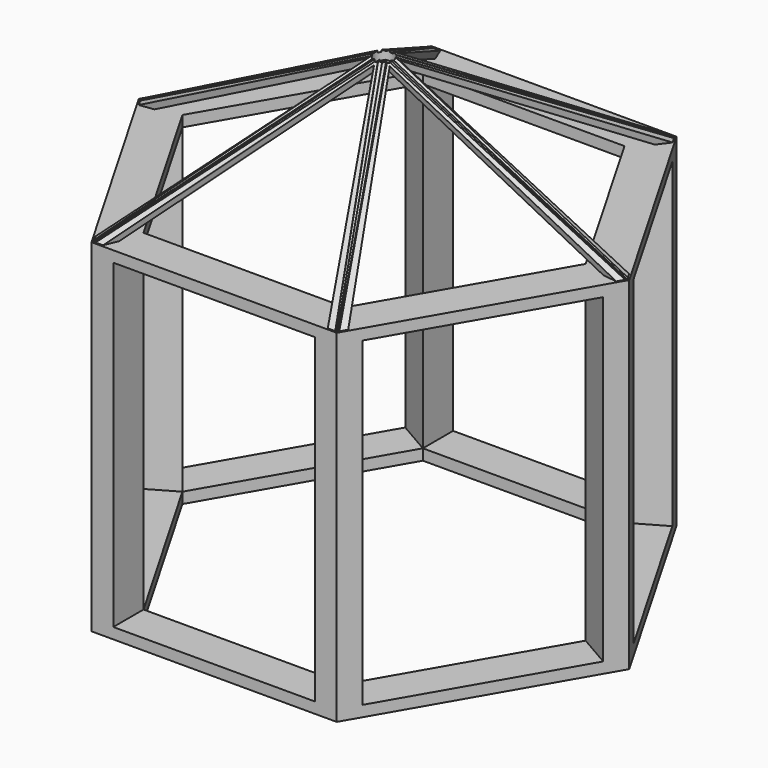
from build123d import *

# Parameters (mm, degrees)
CYLINDER_R                  = 4.5
CYLINDER_DEPTH              = 1000
PAD004_DEPTH                = 3
BODY004_PLACEMENT_ANGLE     = 60
PAD003_DEPTH                = 3
BODY003_PLACEMENT_ANGLE     = 60
PAD006_DEPTH                = 3
BODY006_PLACEMENT_ANGLE     = 60
PAD005_DEPTH                = 3
BODY005_PLACEMENT_ANGLE     = 60
CUT003_PLACEMENT_ANGLE      = 60
PAD008_DEPTH                = 3
BODY008_PLACEMENT_ANGLE     = 60
PAD007_DEPTH                = 3
BODY007_PLACEMENT_ANGLE     = 60
CUT004_PLACEMENT_ANGLE      = 120
PAD010_DEPTH                = 3
BODY010_PLACEMENT_ANGLE     = 60
PAD009_DEPTH                = 3
BODY009_PLACEMENT_ANGLE     = 60
CUT005_PLACEMENT_ANGLE      = 180
PAD012_DEPTH                = 3
BODY012_PLACEMENT_ANGLE     = 60
PAD011_DEPTH                = 3
BODY011_PLACEMENT_ANGLE     = 60
CUT006_PLACEMENT_ANGLE      = 240
PAD014_DEPTH                = 3
BODY014_PLACEMENT_ANGLE     = 60
PAD013_DEPTH                = 3
BODY013_PLACEMENT_ANGLE     = 60
CUT007_PLACEMENT_ANGLE      = 300
BOX_W                       = 92.4
BOX_H                       = 18
BOX_DEPTH                   = 147
BOX001_W                    = 92.4
BOX001_H                    = 18
BOX001_DEPTH                = 147
COMPOUND001_PLACEMENT_ANGLE = 60
BOX002_W                    = 92.4
BOX002_H                    = 18
BOX002_DEPTH                = 147
COMPOUND002_PLACEMENT_ANGLE = 120
BOX003_W                    = 92.4
BOX003_H                    = 18
BOX003_DEPTH                = 147
COMPOUND003_PLACEMENT_ANGLE = 180
BOX004_W                    = 92.4
BOX004_H                    = 18
BOX004_DEPTH                = 147
COMPOUND004_PLACEMENT_ANGLE = 240
BOX005_W                    = 92.4
BOX005_H                    = 18
BOX005_DEPTH                = 147
COMPOUND005_PLACEMENT_ANGLE = 300
PAD001_DEPTH                = 157
PAD_DEPTH                   = 157


with BuildPart() as cylinder:
    # Cylinder → Cylinder (new body)
    with BuildSketch(Plane.XY):
        Circle(CYLINDER_R)
    extrude(amount=CYLINDER_DEPTH)


with BuildPart() as compound007:
    # Sketch004 → Pad004 (new body)
    with BuildSketch(Plane.XZ):
        Polygon((-51.5, 0), (51.5, 0), (0, 105), align=None)
    extrude(amount=PAD004_DEPTH)


with BuildPart() as compound007_1:
    # Body004 placement: moved
    add(compound007.part.moved(Location((0, 96.6, 157))).rotate(Axis((0, 96.6, 157), (1, 0, 0)), BODY004_PLACEMENT_ANGLE))


with BuildPart() as cut002:
    # Sketch003 → Pad003 (new body)
    with BuildSketch(Plane.XZ):
        Polygon((-56.5, 0), (56.5, 0), (0, 115), align=None)
    extrude(amount=PAD003_DEPTH)


with BuildPart() as cut002_1:
    # Body003 placement: moved
    add(cut002.part.moved(Location((0, 96.6, 157))).rotate(Axis((0, 96.6, 157), (1, 0, 0)), BODY003_PLACEMENT_ANGLE))

    # Cut002: cut Compound007
    add(compound007_1.part, mode=Mode.SUBTRACT)


with BuildPart() as compound009:
    # Sketch006 → Pad006 (new body)
    with BuildSketch(Plane.XZ):
        Polygon((-51.5, 0), (51.5, 0), (0, 105), align=None)
    extrude(amount=PAD006_DEPTH)


with BuildPart() as compound009_1:
    # Body006 placement: moved
    add(compound009.part.moved(Location((0, 96.6, 157))).rotate(Axis((0, 96.6, 157), (1, 0, 0)), BODY006_PLACEMENT_ANGLE))


with BuildPart() as cut003:
    # Sketch005 → Pad005 (new body)
    with BuildSketch(Plane.XZ):
        Polygon((-56.5, 0), (56.5, 0), (0, 115), align=None)
    extrude(amount=PAD005_DEPTH)


with BuildPart() as cut003_1:
    # Body005 placement: moved
    add(cut003.part.moved(Location((0, 96.6, 157))).rotate(Axis((0, 96.6, 157), (1, 0, 0)), BODY005_PLACEMENT_ANGLE))

    # Cut003: cut Compound009
    add(compound009_1.part, mode=Mode.SUBTRACT)


with BuildPart() as cut003_2:
    # Cut003 placement: moved
    add(cut003_1.part.rotate(Axis((0, 0, 0), (0, 0, 1)), CUT003_PLACEMENT_ANGLE))


with BuildPart() as compound011:
    # Sketch008 → Pad008 (new body)
    with BuildSketch(Plane.XZ):
        Polygon((-51.5, 0), (51.5, 0), (0, 105), align=None)
    extrude(amount=PAD008_DEPTH)


with BuildPart() as compound011_1:
    # Body008 placement: moved
    add(compound011.part.moved(Location((0, 96.6, 157))).rotate(Axis((0, 96.6, 157), (1, 0, 0)), BODY008_PLACEMENT_ANGLE))


with BuildPart() as cut004:
    # Sketch007 → Pad007 (new body)
    with BuildSketch(Plane.XZ):
        Polygon((-56.5, 0), (56.5, 0), (0, 115), align=None)
    extrude(amount=PAD007_DEPTH)


with BuildPart() as cut004_1:
    # Body007 placement: moved
    add(cut004.part.moved(Location((0, 96.6, 157))).rotate(Axis((0, 96.6, 157), (1, 0, 0)), BODY007_PLACEMENT_ANGLE))

    # Cut004: cut Compound011
    add(compound011_1.part, mode=Mode.SUBTRACT)


with BuildPart() as cut004_2:
    # Cut004 placement: moved
    add(cut004_1.part.rotate(Axis((0, 0, 0), (0, 0, 1)), CUT004_PLACEMENT_ANGLE))


with BuildPart() as compound013:
    # Sketch010 → Pad010 (new body)
    with BuildSketch(Plane.XZ):
        Polygon((-51.5, 0), (51.5, 0), (0, 105), align=None)
    extrude(amount=PAD010_DEPTH)


with BuildPart() as compound013_1:
    # Body010 placement: moved
    add(compound013.part.moved(Location((0, 96.6, 157))).rotate(Axis((0, 96.6, 157), (1, 0, 0)), BODY010_PLACEMENT_ANGLE))


with BuildPart() as cut005:
    # Sketch009 → Pad009 (new body)
    with BuildSketch(Plane.XZ):
        Polygon((-56.5, 0), (56.5, 0), (0, 115), align=None)
    extrude(amount=PAD009_DEPTH)


with BuildPart() as cut005_1:
    # Body009 placement: moved
    add(cut005.part.moved(Location((0, 96.6, 157))).rotate(Axis((0, 96.6, 157), (1, 0, 0)), BODY009_PLACEMENT_ANGLE))

    # Cut005: cut Compound013
    add(compound013_1.part, mode=Mode.SUBTRACT)


with BuildPart() as cut005_2:
    # Cut005 placement: moved
    add(cut005_1.part.rotate(Axis((0, 0, 0), (0, 0, 1)), CUT005_PLACEMENT_ANGLE))


with BuildPart() as compound015:
    # Sketch012 → Pad012 (new body)
    with BuildSketch(Plane.XZ):
        Polygon((-51.5, 0), (51.5, 0), (0, 105), align=None)
    extrude(amount=PAD012_DEPTH)


with BuildPart() as compound015_1:
    # Body012 placement: moved
    add(compound015.part.moved(Location((0, 96.6, 157))).rotate(Axis((0, 96.6, 157), (1, 0, 0)), BODY012_PLACEMENT_ANGLE))


with BuildPart() as cut006:
    # Sketch011 → Pad011 (new body)
    with BuildSketch(Plane.XZ):
        Polygon((-56.5, 0), (56.5, 0), (0, 115), align=None)
    extrude(amount=PAD011_DEPTH)


with BuildPart() as cut006_1:
    # Body011 placement: moved
    add(cut006.part.moved(Location((0, 96.6, 157))).rotate(Axis((0, 96.6, 157), (1, 0, 0)), BODY011_PLACEMENT_ANGLE))

    # Cut006: cut Compound015
    add(compound015_1.part, mode=Mode.SUBTRACT)


with BuildPart() as cut006_2:
    # Cut006 placement: moved
    add(cut006_1.part.rotate(Axis((0, 0, 0), (0, 0, 1)), CUT006_PLACEMENT_ANGLE))


with BuildPart() as compound017:
    # Sketch014 → Pad014 (new body)
    with BuildSketch(Plane.XZ):
        Polygon((-51.5, 0), (51.5, 0), (0, 105), align=None)
    extrude(amount=PAD014_DEPTH)


with BuildPart() as compound017_1:
    # Body014 placement: moved
    add(compound017.part.moved(Location((0, 96.6, 157))).rotate(Axis((0, 96.6, 157), (1, 0, 0)), BODY014_PLACEMENT_ANGLE))


with BuildPart() as cut008:
    # Sketch013 → Pad013 (new body)
    with BuildSketch(Plane.XZ):
        Polygon((-56.5, 0), (56.5, 0), (0, 115), align=None)
    extrude(amount=PAD013_DEPTH)


with BuildPart() as cut008_1:
    # Body013 placement: moved
    add(cut008.part.moved(Location((0, 96.6, 157))).rotate(Axis((0, 96.6, 157), (1, 0, 0)), BODY013_PLACEMENT_ANGLE))

    # Cut007: cut Compound017
    add(compound017_1.part, mode=Mode.SUBTRACT)


with BuildPart() as cut008_2:
    # Cut007 placement: moved
    add(cut008_1.part.rotate(Axis((0, 0, 0), (0, 0, 1)), CUT007_PLACEMENT_ANGLE))

    # Fusion001: union Cut002, Cut003, Cut004, Cut005, Cut006
    add(cut002_1.part)
    add(cut003_2.part)
    add(cut004_2.part)
    add(cut005_2.part)
    add(cut006_2.part)

    # Cut008: cut Cylinder
    add(cylinder.part, mode=Mode.SUBTRACT)


with BuildPart() as compound:
    # Box → Box (new body)
    with BuildSketch(Plane(origin=(-46.2, 80, 5), x_dir=(1, 0, 0), z_dir=(0, 0, 1))):
        with Locations((46.2, 9)):
            Rectangle(BOX_W, BOX_H)
    extrude(amount=BOX_DEPTH)


with BuildPart() as compound001:
    # Box001 → Box001 (new body)
    with BuildSketch(Plane(origin=(-46.2, 80, 5), x_dir=(1, 0, 0), z_dir=(0, 0, 1))):
        with Locations((46.2, 9)):
            Rectangle(BOX001_W, BOX001_H)
    extrude(amount=BOX001_DEPTH)


with BuildPart() as compound001_1:
    # Compound001 placement: moved
    add(compound001.part.rotate(Axis((0, 0, 0), (0, 0, 1)), COMPOUND001_PLACEMENT_ANGLE))


with BuildPart() as compound002:
    # Box002 → Box002 (new body)
    with BuildSketch(Plane(origin=(-46.2, 80, 5), x_dir=(1, 0, 0), z_dir=(0, 0, 1))):
        with Locations((46.2, 9)):
            Rectangle(BOX002_W, BOX002_H)
    extrude(amount=BOX002_DEPTH)


with BuildPart() as compound002_1:
    # Compound002 placement: moved
    add(compound002.part.rotate(Axis((0, 0, 0), (0, 0, 1)), COMPOUND002_PLACEMENT_ANGLE))


with BuildPart() as compound003:
    # Box003 → Box003 (new body)
    with BuildSketch(Plane(origin=(-46.2, 80, 5), x_dir=(1, 0, 0), z_dir=(0, 0, 1))):
        with Locations((46.2, 9)):
            Rectangle(BOX003_W, BOX003_H)
    extrude(amount=BOX003_DEPTH)


with BuildPart() as compound003_1:
    # Compound003 placement: moved
    add(compound003.part.rotate(Axis((0, 0, 0), (0, 0, 1)), COMPOUND003_PLACEMENT_ANGLE))


with BuildPart() as compound004:
    # Box004 → Box004 (new body)
    with BuildSketch(Plane(origin=(-46.2, 80, 5), x_dir=(1, 0, 0), z_dir=(0, 0, 1))):
        with Locations((46.2, 9)):
            Rectangle(BOX004_W, BOX004_H)
    extrude(amount=BOX004_DEPTH)


with BuildPart() as compound004_1:
    # Compound004 placement: moved
    add(compound004.part.rotate(Axis((0, 0, 0), (0, 0, 1)), COMPOUND004_PLACEMENT_ANGLE))


with BuildPart() as fusion:
    # Box005 → Box005 (new body)
    with BuildSketch(Plane(origin=(-46.2, 80, 5), x_dir=(1, 0, 0), z_dir=(0, 0, 1))):
        with Locations((46.2, 9)):
            Rectangle(BOX005_W, BOX005_H)
    extrude(amount=BOX005_DEPTH)


with BuildPart() as fusion_1:
    # Compound005 placement: moved
    add(fusion.part.rotate(Axis((0, 0, 0), (0, 0, 1)), COMPOUND005_PLACEMENT_ANGLE))

    # Fusion: union Compound, Compound001, Compound002, Compound003, Compound004
    add(compound.part)
    add(compound001_1.part)
    add(compound002_1.part)
    add(compound003_1.part)
    add(compound004_1.part)


with BuildPart() as body001:
    # Sketch001 → Pad001 (new body)
    with BuildSketch(Plane.XY):
        Polygon((92.4, 0), (46.2, 80.020747), (-46.2, 80.020747), (-92.4, 0), (-46.2, -80.020747), (46.2, -80.020747), align=None)
    extrude(amount=PAD001_DEPTH)


with BuildPart() as fusion002:
    # Sketch → Pad (new body)
    with BuildSketch(Plane.XY):
        Polygon((112.4, 0), (56.2, 97.341255), (-56.2, 97.341255), (-112.4, 0), (-56.2, -97.341255), (56.2, -97.341255), align=None)
    extrude(amount=PAD_DEPTH)

    # Cut: cut Body001
    add(body001.part, mode=Mode.SUBTRACT)

    # Cut001: cut Fusion
    add(fusion_1.part, mode=Mode.SUBTRACT)

    # Fusion002: union Cut008
    add(cut008_2.part)


solid = fusion002.part
